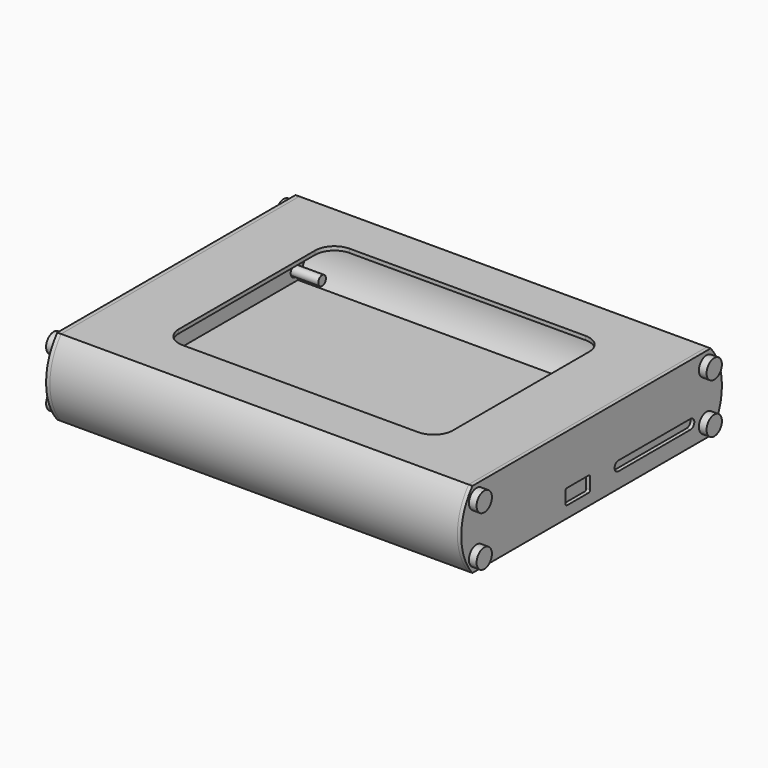
from build123d import *

# Parameters (mm, degrees)
F0_R      = 1.5
F1_DEPTH  = 1
F2_R      = 2.5
F2_R_2    = 1.5
F2_R_3    = 1.25
F3_DEPTH  = 2
F4_DEPTH  = 8
F6_DEPTH  = 106.3
F7_T      = -1
F9_DEPTH  = 1
F10_R     = 1.5
F11_DEPTH = 1
F12_R     = 2.5
F12_R_2   = 1.5
F12_R_3   = 1.25
F13_DEPTH = 2
F14_DEPTH = 8


with BuildPart() as f1:
    # F0 (on Right) → F1 (new body)
    with BuildSketch(Plane.YZ):
        with BuildLine():
            Line((38.85, 10), (0, 10))
            Line((0, 10), (-38.85, 10))
            ThreePointArc((-38.85, 10), (-42.5, 0), (-38.85, -10))
            Line((-38.85, -10), (0, -10))
            Line((0, -10), (38.85, -10))
            ThreePointArc((38.85, -10), (42.5, 0), (38.85, 10))
        make_face()
        with Locations((-37.5, -6.5)):
            Circle(F0_R, mode=Mode.SUBTRACT)
        with BuildLine():
            ThreePointArc((-8.5, -3.5), (-8.3535533906, -3.1464466094), (-8, -3))
            Line((-8, -3), (-1, -3))
            ThreePointArc((-1, -3), (-0.6464466094, -3.1464466094), (-0.5, -3.5))
            Line((-0.5, -3.5), (-0.5, -6.5))
            ThreePointArc((-0.5, -6.5), (-0.6464466094, -6.8535533906), (-1, -7))
            Line((-1, -7), (-8, -7))
            ThreePointArc((-8, -7), (-8.3535533906, -6.8535533906), (-8.5, -6.5))
            Line((-8.5, -6.5), (-8.5, -3.5))
        make_face(mode=Mode.SUBTRACT)
        with Locations((37.5, -6.5)):
            Circle(F0_R, mode=Mode.SUBTRACT)
        with BuildLine():
            ThreePointArc((8.75, -6), (7.5, -4.75), (8.75, -3.5))
            Line((8.75, -3.5), (32.25, -3.5))
            ThreePointArc((32.25, -3.5), (33.5, -4.75), (32.25, -6))
            Line((32.25, -6), (8.75, -6))
        make_face(mode=Mode.SUBTRACT)
        with Locations((-37.5, 6.5)):
            Circle(F0_R, mode=Mode.SUBTRACT)
        with Locations((37.5, 6.5)):
            Circle(F0_R, mode=Mode.SUBTRACT)
    extrude(amount=F1_DEPTH)


with BuildPart() as f3:
    # F2 (on face) → F3 (new body)
    with BuildSketch(Plane.YZ.offset(1)):
        with Locations((-37.5, 6.5)):
            Circle(F2_R)
        with Locations((-37.5, 6.5)):
            Circle(F2_R_2, mode=Mode.SUBTRACT)
        with Locations((-37.5, 6.5)):
            Circle(F2_R_2)
        with Locations((-37.5, 6.5)):
            Circle(F2_R_3, mode=Mode.SUBTRACT)
        with Locations((-37.5, 6.5)):
            Circle(F2_R_3)
    extrude(amount=F3_DEPTH)

    # F2 (on face) → F4 (join)
    with BuildSketch(Plane.YZ.offset(1)):
        with Locations((-37.5, 6.5)):
            Circle(F2_R_3)
    extrude(amount=-F4_DEPTH)


with BuildPart() as f3b:
    # F2 (on face) → F3, piece 2 (new body)
    with BuildSketch(Plane.YZ.offset(1)):
        with Locations((37.5, 6.5)):
            Circle(F2_R)
        with Locations((37.5, 6.5)):
            Circle(F2_R_2, mode=Mode.SUBTRACT)
        with Locations((37.5, 6.5)):
            Circle(F2_R_2)
        with Locations((37.5, 6.5)):
            Circle(F2_R_3, mode=Mode.SUBTRACT)
        with Locations((37.5, 6.5)):
            Circle(F2_R_3)
    extrude(amount=F3_DEPTH)

    # F2 (on face) → F4, piece 3 (join)
    with BuildSketch(Plane.YZ.offset(1)):
        with Locations((37.5, 6.5)):
            Circle(F2_R_3)
    extrude(amount=-F4_DEPTH)


with BuildPart() as f3c:
    # F2 (on face) → F3, piece 3 (new body)
    with BuildSketch(Plane.YZ.offset(1)):
        with Locations((37.5, -6.5)):
            Circle(F2_R)
        with Locations((37.5, -6.5)):
            Circle(F2_R_2, mode=Mode.SUBTRACT)
        with Locations((37.5, -6.5)):
            Circle(F2_R_2)
        with Locations((37.5, -6.5)):
            Circle(F2_R_3, mode=Mode.SUBTRACT)
        with Locations((37.5, -6.5)):
            Circle(F2_R_3)
    extrude(amount=F3_DEPTH)

    # F2 (on face) → F4, piece 4 (join)
    with BuildSketch(Plane.YZ.offset(1)):
        with Locations((37.5, -6.5)):
            Circle(F2_R_3)
    extrude(amount=-F4_DEPTH)


with BuildPart() as f3d:
    # F2 (on face) → F3, piece 4 (new body)
    with BuildSketch(Plane.YZ.offset(1)):
        with Locations((-37.5, -6.5)):
            Circle(F2_R)
        with Locations((-37.5, -6.5)):
            Circle(F2_R_2, mode=Mode.SUBTRACT)
        with Locations((-37.5, -6.5)):
            Circle(F2_R_2)
        with Locations((-37.5, -6.5)):
            Circle(F2_R_3, mode=Mode.SUBTRACT)
        with Locations((-37.5, -6.5)):
            Circle(F2_R_3)
    extrude(amount=F3_DEPTH)

    # F2 (on face) → F4, piece 2 (join)
    with BuildSketch(Plane.YZ.offset(1)):
        with Locations((-37.5, -6.5)):
            Circle(F2_R_3)
    extrude(amount=-F4_DEPTH)


with BuildPart() as f6:
    # F5 (on face) → F6 (new body)
    with BuildSketch(Plane.YZ):
        with BuildLine():
            Line((38.85, 10), (0, 10))
            Line((0, 10), (-38.85, 10))
            ThreePointArc((-38.85, 10), (-42.5, 0), (-38.85, -10))
            Line((-38.85, -10), (0, -10))
            Line((0, -10), (38.85, -10))
            ThreePointArc((38.85, -10), (42.5, 0), (38.85, 10))
        make_face()
    extrude(amount=-F6_DEPTH)

    # F7
    f7_openings = [f6.faces().sort_by_distance(p)[0] for p in [
        (-106.3, 0, 0),
    ]]
    offset(amount=F7_T, openings=f7_openings)

    # F8 (on face) → F9 (cut, through all)
    with BuildSketch(Plane.XY.offset(10)):
        with BuildLine():
            Line((-22.4, 27.25), (-83.9, 27.25))
            ThreePointArc((-83.9, 27.25), (-87.4355339059, 25.7855339059), (-88.9, 22.25))
            Line((-88.9, 22.25), (-88.9, -22.25))
            ThreePointArc((-88.9, -22.25), (-87.4355339059, -25.7855339059), (-83.9, -27.25))
            Line((-83.9, -27.25), (-22.4, -27.25))
            ThreePointArc((-22.4, -27.25), (-18.8644660941, -25.7855339059), (-17.4, -22.25))
            Line((-17.4, -22.25), (-17.4, 22.25))
            ThreePointArc((-17.4, 22.25), (-18.8644660941, 25.7855339059), (-22.4, 27.25))
        make_face()
    extrude(amount=-F9_DEPTH, mode=Mode.SUBTRACT)


with BuildPart() as f11:
    # F10 (on face) → F11 (new body)
    with BuildSketch(Plane(origin=(-106.3, 0, 0), x_dir=(0, -1, 0), z_dir=(-1, 0, 0))):
        with BuildLine():
            Line((38.85, 10), (0, 10))
            Line((0, 10), (-38.85, 10))
            ThreePointArc((-38.85, 10), (-42.5, 0), (-38.85, -10))
            Line((-38.85, -10), (0, -10))
            Line((0, -10), (38.85, -10))
            ThreePointArc((38.85, -10), (42.5, 0), (38.85, 10))
        make_face()
        with BuildLine():
            Line((-38.3753098293, 9), (-37.5, 9))
            Line((-37.5, 9), (37.5000000133, 9))
            Line((37.5000000133, 9), (38.3753098293, 9))
            ThreePointArc((38.3753098293, 9), (38.4664122069, 8.8833979586), (38.5563218887, 8.7658737978))
            ThreePointArc((38.5563218887, 8.7658737978), (39.6084122844, 7.8433531327), (40, 6.5))
            ThreePointArc((40, 6.5), (39.9997557231, 6.4650525408), (39.9990229401, 6.4301119112))
            ThreePointArc((39.9990229401, 6.4301119112), (41.5, 0), (39.9990229401, -6.4301119112))
            ThreePointArc((39.9990229401, -6.4301119112), (39.9997557231, -6.4650525408), (40, -6.5))
            ThreePointArc((40, -6.5), (39.6084122844, -7.8433531327), (38.5563218887, -8.7658737978))
            ThreePointArc((38.5563218887, -8.7658737978), (38.4664122069, -8.8833979586), (38.3753098293, -9))
            Line((38.3753098293, -9), (37.5, -9))
            Line((37.5, -9), (-37.5, -9))
            Line((-37.5, -9), (-38.3753098293, -9))
            ThreePointArc((-38.3753098293, -9), (-38.4664122069, -8.8833979586), (-38.5563218887, -8.7658737978))
            ThreePointArc((-38.5563218887, -8.7658737978), (-39.6269849813, -7.8137484118), (-39.9990229401, -6.4301119112))
            ThreePointArc((-39.9990229401, -6.4301119112), (-41.5, 0), (-39.9990229401, 6.4301119112))
            ThreePointArc((-39.9990229401, 6.4301119112), (-39.6269849813, 7.8137484118), (-38.5563218887, 8.7658737978))
            ThreePointArc((-38.5563218887, 8.7658737978), (-38.4664122069, 8.8833979586), (-38.3753098293, 9))
        make_face(mode=Mode.SUBTRACT)
        with BuildLine():
            ThreePointArc((-37.5, 9), (-35.732233047, 8.267766953), (-35, 6.5))
            ThreePointArc((-35, 6.5), (-37.4650525408, 4.0002442769), (-39.9990229401, 6.4301119112))
            ThreePointArc((-39.9990229401, 6.4301119112), (-41.5, 0), (-39.9990229401, -6.4301119112))
            ThreePointArc((-39.9990229401, -6.4301119112), (-37.4650525408, -4.0002442769), (-35, -6.5))
            ThreePointArc((-35, -6.5), (-35.732233047, -8.267766953), (-37.5, -9))
            Line((-37.5, -9), (37.5, -9))
            ThreePointArc((37.5, -9), (35.7076941915, -4.7571173622), (39.9990229401, -6.4301119112))
            ThreePointArc((39.9990229401, -6.4301119112), (41.5, 0), (39.9990229401, 6.4301119112))
            ThreePointArc((39.9990229401, 6.4301119112), (35.7076941869, 4.757117367), (37.5000000133, 9))
            Line((37.5000000133, 9), (-37.5, 9))
        make_face()
        with BuildLine():
            ThreePointArc((38.5563218887, -8.7658737978), (39.3329871331, -7.6321584101), (39.9990229401, -6.4301119112))
            ThreePointArc((39.9990229401, -6.4301119112), (35.7076941915, -4.7571173622), (37.5, -9))
            ThreePointArc((37.5, -9), (38.0409785142, -8.9407667335), (38.5563218887, -8.7658737978))
        make_face()
        with Locations((37.5, -6.5)):
            Circle(F10_R, mode=Mode.SUBTRACT)
        with BuildLine():
            ThreePointArc((38.5563218887, 8.7658737978), (38.0409785207, 8.940766732), (37.5000000133, 9))
            ThreePointArc((37.5000000133, 9), (35.7076941869, 4.757117367), (39.9990229401, 6.4301119112))
            ThreePointArc((39.9990229401, 6.4301119112), (39.3329871331, 7.6321584101), (38.5563218887, 8.7658737978))
        make_face()
        with Locations((37.5, 6.5)):
            Circle(F10_R, mode=Mode.SUBTRACT)
        with BuildLine():
            ThreePointArc((-39.9990229401, 6.4301119112), (-37.4650525408, 4.0002442769), (-35, 6.5))
            ThreePointArc((-35, 6.5), (-35.732233047, 8.267766953), (-37.5, 9))
            ThreePointArc((-37.5, 9), (-38.0409785142, 8.9407667335), (-38.5563218887, 8.7658737978))
            ThreePointArc((-38.5563218887, 8.7658737978), (-39.3329871331, 7.6321584101), (-39.9990229401, 6.4301119112))
        make_face()
        with Locations((-37.5, 6.5)):
            Circle(F10_R, mode=Mode.SUBTRACT)
        with BuildLine():
            ThreePointArc((-35, -6.5), (-37.4650525408, -4.0002442769), (-39.9990229401, -6.4301119112))
            ThreePointArc((-39.9990229401, -6.4301119112), (-39.3329871331, -7.6321584101), (-38.5563218887, -8.7658737978))
            ThreePointArc((-38.5563218887, -8.7658737978), (-38.0409785142, -8.9407667335), (-37.5, -9))
            ThreePointArc((-37.5, -9), (-35.732233047, -8.267766953), (-35, -6.5))
        make_face()
        with Locations((-37.5, -6.5)):
            Circle(F10_R, mode=Mode.SUBTRACT)
        with BuildLine():
            ThreePointArc((40, -6.5), (39.9997557231, -6.4650525408), (39.9990229401, -6.4301119112))
            ThreePointArc((39.9990229401, -6.4301119112), (39.3329871331, -7.6321584101), (38.5563218887, -8.7658737978))
            ThreePointArc((38.5563218887, -8.7658737978), (39.6084122844, -7.8433531327), (40, -6.5))
        make_face()
        with BuildLine():
            ThreePointArc((40, 6.5), (39.6084122844, 7.8433531327), (38.5563218887, 8.7658737978))
            ThreePointArc((38.5563218887, 8.7658737978), (39.3329871331, 7.6321584101), (39.9990229401, 6.4301119112))
            ThreePointArc((39.9990229401, 6.4301119112), (39.9997557231, 6.4650525408), (40, 6.5))
        make_face()
        with BuildLine():
            ThreePointArc((-38.5563218887, -8.7658737978), (-39.3329871331, -7.6321584101), (-39.9990229401, -6.4301119112))
            ThreePointArc((-39.9990229401, -6.4301119112), (-39.6269849813, -7.8137484118), (-38.5563218887, -8.7658737978))
        make_face()
        with BuildLine():
            ThreePointArc((-38.5563218887, 8.7658737978), (-39.6269849813, 7.8137484118), (-39.9990229401, 6.4301119112))
            ThreePointArc((-39.9990229401, 6.4301119112), (-39.3329871331, 7.6321584101), (-38.5563218887, 8.7658737978))
        make_face()
        with BuildLine():
            ThreePointArc((-38.5563218887, 8.7658737978), (-38.0409785142, 8.9407667335), (-37.5, 9))
            Line((-37.5, 9), (-38.3753098293, 9))
            ThreePointArc((-38.3753098293, 9), (-38.4664122069, 8.8833979586), (-38.5563218887, 8.7658737978))
        make_face()
        with BuildLine():
            ThreePointArc((-37.5, -9), (-38.0409785142, -8.9407667335), (-38.5563218887, -8.7658737978))
            ThreePointArc((-38.5563218887, -8.7658737978), (-38.4664122069, -8.8833979586), (-38.3753098293, -9))
            Line((-38.3753098293, -9), (-37.5, -9))
        make_face()
        with BuildLine():
            Line((38.3753098293, 9), (37.5000000133, 9))
            ThreePointArc((37.5000000133, 9), (38.0409785207, 8.940766732), (38.5563218887, 8.7658737978))
            ThreePointArc((38.5563218887, 8.7658737978), (38.4664122069, 8.8833979586), (38.3753098293, 9))
        make_face()
        with BuildLine():
            ThreePointArc((38.5563218887, -8.7658737978), (38.0409785142, -8.9407667335), (37.5, -9))
            Line((37.5, -9), (38.3753098293, -9))
            ThreePointArc((38.3753098293, -9), (38.4664122069, -8.8833979586), (38.5563218887, -8.7658737978))
        make_face()
    extrude(amount=F11_DEPTH)


with BuildPart() as f13:
    # F12 (on face) → F13 (new body)
    with BuildSketch(Plane(origin=(-107.3, 0, 0), x_dir=(0, -1, 0), z_dir=(-1, 0, 0))):
        with Locations((37.5, -6.5)):
            Circle(F12_R)
        with Locations((37.5, -6.5)):
            Circle(F12_R_2, mode=Mode.SUBTRACT)
        with Locations((37.5, -6.5)):
            Circle(F12_R_2)
        with Locations((37.5, -6.5)):
            Circle(F12_R_3, mode=Mode.SUBTRACT)
        with Locations((37.5, -6.5)):
            Circle(F12_R_3)
    extrude(amount=F13_DEPTH)

    # F12 (on face) → F14 (join)
    with BuildSketch(Plane(origin=(-107.3, 0, 0), x_dir=(0, -1, 0), z_dir=(-1, 0, 0))):
        with Locations((37.5, -6.5)):
            Circle(F12_R_3)
    extrude(amount=-F14_DEPTH)


with BuildPart() as f13b:
    # F12 (on face) → F13, piece 2 (new body)
    with BuildSketch(Plane(origin=(-107.3, 0, 0), x_dir=(0, -1, 0), z_dir=(-1, 0, 0))):
        with Locations((37.5, 6.5)):
            Circle(F12_R)
        with Locations((37.5, 6.5)):
            Circle(F12_R_2, mode=Mode.SUBTRACT)
        with Locations((37.5, 6.5)):
            Circle(F12_R_2)
        with Locations((37.5, 6.5)):
            Circle(F12_R_3, mode=Mode.SUBTRACT)
        with Locations((37.5, 6.5)):
            Circle(F12_R_3)
    extrude(amount=F13_DEPTH)

    # F12 (on face) → F14, piece 2 (join)
    with BuildSketch(Plane(origin=(-107.3, 0, 0), x_dir=(0, -1, 0), z_dir=(-1, 0, 0))):
        with Locations((37.5, 6.5)):
            Circle(F12_R_3)
    extrude(amount=-F14_DEPTH)


with BuildPart() as f13c:
    # F12 (on face) → F13, piece 3 (new body)
    with BuildSketch(Plane(origin=(-107.3, 0, 0), x_dir=(0, -1, 0), z_dir=(-1, 0, 0))):
        with Locations((-37.5, -6.5)):
            Circle(F12_R)
        with Locations((-37.5, -6.5)):
            Circle(F12_R_2, mode=Mode.SUBTRACT)
        with Locations((-37.5, -6.5)):
            Circle(F12_R_2)
        with Locations((-37.5, -6.5)):
            Circle(F12_R_3, mode=Mode.SUBTRACT)
        with Locations((-37.5, -6.5)):
            Circle(F12_R_3)
    extrude(amount=F13_DEPTH)

    # F12 (on face) → F14, piece 4 (join)
    with BuildSketch(Plane(origin=(-107.3, 0, 0), x_dir=(0, -1, 0), z_dir=(-1, 0, 0))):
        with Locations((-37.5, -6.5)):
            Circle(F12_R_3)
    extrude(amount=-F14_DEPTH)


with BuildPart() as f13d:
    # F12 (on face) → F13, piece 4 (new body)
    with BuildSketch(Plane(origin=(-107.3, 0, 0), x_dir=(0, -1, 0), z_dir=(-1, 0, 0))):
        with Locations((-37.5, 6.5)):
            Circle(F12_R)
        with Locations((-37.5, 6.5)):
            Circle(F12_R_2, mode=Mode.SUBTRACT)
        with Locations((-37.5, 6.5)):
            Circle(F12_R_2)
        with Locations((-37.5, 6.5)):
            Circle(F12_R_3, mode=Mode.SUBTRACT)
        with Locations((-37.5, 6.5)):
            Circle(F12_R_3)
    extrude(amount=F13_DEPTH)

    # F12 (on face) → F14, piece 3 (join)
    with BuildSketch(Plane(origin=(-107.3, 0, 0), x_dir=(0, -1, 0), z_dir=(-1, 0, 0))):
        with Locations((-37.5, 6.5)):
            Circle(F12_R_3)
    extrude(amount=-F14_DEPTH)


solid = Compound([f1.part, f3.part, f3b.part, f3c.part, f3d.part, f6.part, f11.part, f13.part, f13b.part, f13c.part, f13d.part])
